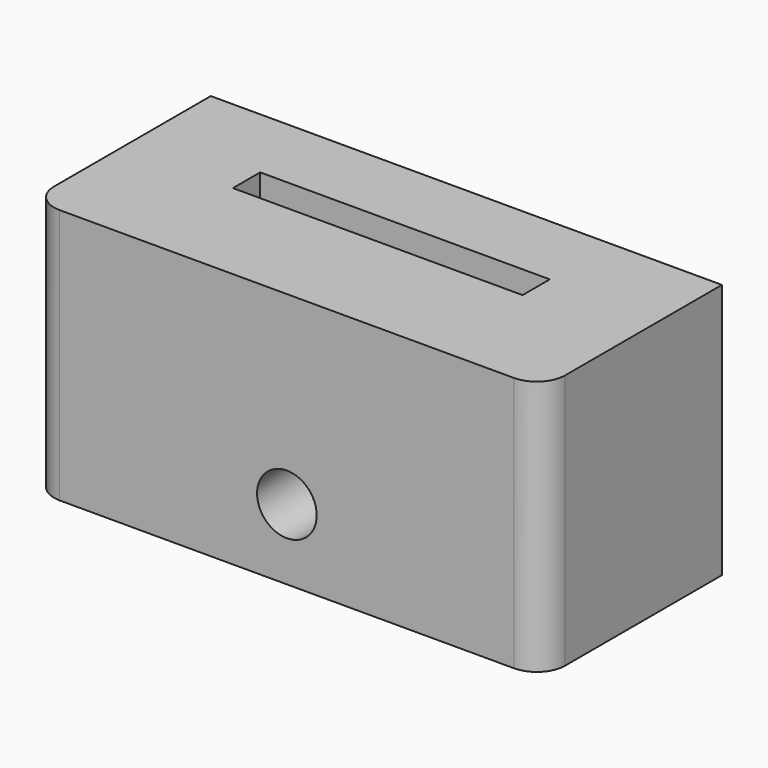
from build123d import *

# Parameters (mm, degrees)
F0_W     = 90
F0_H     = 39.5
F1_DEPTH = 45
F2_R     = 5.25
F3_DEPTH = 39.5
F5_DEPTH = 45.001
F6_R     = 5


with BuildPart() as f1:
    # F0 (on Top) → F1 (new body)
    with BuildSketch(Plane.XY):
        Rectangle(F0_W, F0_H)
    extrude(amount=F1_DEPTH)

    # F2 (on face) → F3 (cut, through all)
    with BuildSketch(Plane.XZ.offset(19.75)):
        with Locations((0, 12.4)):
            Circle(F2_R)
    extrude(amount=-F3_DEPTH, mode=Mode.SUBTRACT)

    # F4 (on face) → F5 (cut, through all)
    with BuildSketch(Plane.XY.offset(45)):
        Polygon((25.5, 6.25), (0, 6.25), (-25.5, 6.25), (-25.5, 0.25), (0, 0.25), (25.5, 0.25), align=None)
    extrude(amount=-F5_DEPTH, mode=Mode.SUBTRACT)

    # F6
    f6_edges = [f1.edges().sort_by_distance(p)[0] for p in [
        (-45, -19.75, 22.5),
        (45, -19.75, 22.5),
    ]]
    fillet(f6_edges, radius=F6_R)


solid = f1.part
